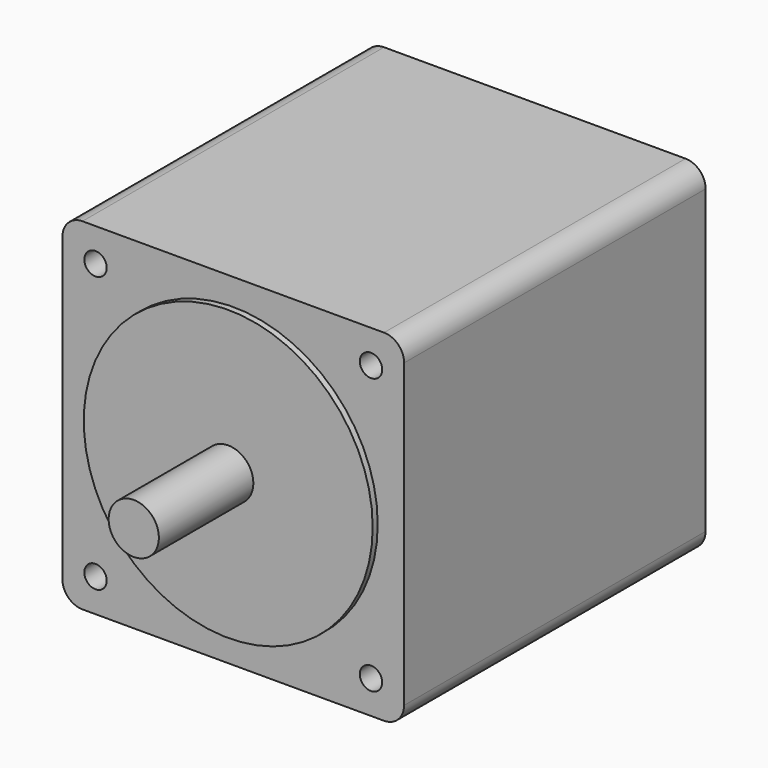
from build123d import *

# Parameters (mm, degrees)
F0_R     = 2.8321
F1_DEPTH = 95.25
F2_R     = 36.5125
F3_DEPTH = 1.5875
F4_R     = 6.35
F5_DEPTH = 29.845


with BuildPart() as f1:
    # F0 (on Front) → F1 (new body)
    with BuildSketch(Plane.XZ):
        with BuildLine():
            ThreePointArc((0, 5.08), (1.487898, 1.487898), (5.08, 0))
            Line((5.08, 0), (81.28, 0))
            ThreePointArc((81.28, 0), (84.872102, 1.487898), (86.36, 5.08))
            Line((86.36, 5.08), (86.36, 81.28))
            ThreePointArc((86.36, 81.28), (84.872102, 84.872102), (81.28, 86.36))
            Line((81.28, 86.36), (5.08, 86.36))
            ThreePointArc((5.08, 86.36), (1.487898, 84.872102), (0, 81.28))
            Line((0, 81.28), (0, 5.08))
        make_face()
        with Locations((8.372527, 8.372527)):
            Circle(F0_R, mode=Mode.SUBTRACT)
        with Locations((77.987473, 8.372527)):
            Circle(F0_R, mode=Mode.SUBTRACT)
        with Locations((8.372527, 77.987473)):
            Circle(F0_R, mode=Mode.SUBTRACT)
        with Locations((77.987473, 77.987473)):
            Circle(F0_R, mode=Mode.SUBTRACT)
    extrude(amount=-F1_DEPTH)

    # F2 (on face) → F3 (join)
    with BuildSketch(Plane.XZ):
        with Locations((43.18, 43.18)):
            Circle(F2_R)
    extrude(amount=F3_DEPTH)

    # F4 (on face) → F5 (join)
    with BuildSketch(Plane.XZ.offset(1.5875)):
        with Locations((43.18, 43.18)):
            Circle(F4_R)
    extrude(amount=F5_DEPTH)


solid = f1.part
